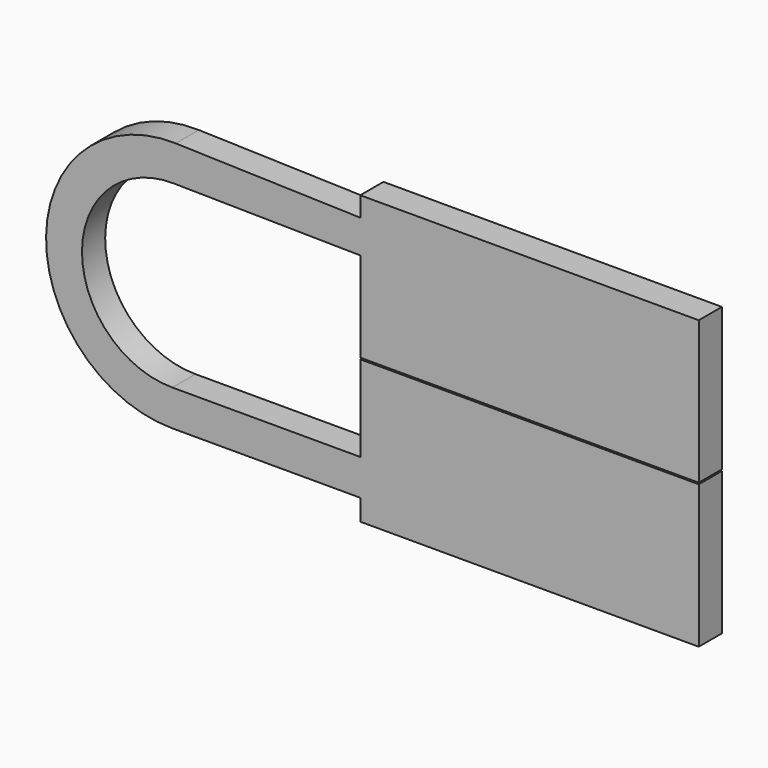
from build123d import *

# Parameters (mm, degrees)
F1_DEPTH = 2.54


with BuildPart() as f1:
    # F0 (on Front) → F1 (new body)
    with BuildSketch(Plane.XZ):
        Polygon((0.222055, 37.498046), (-29.462697, 37.498046), (-29.462697, 35.763686), (-29.462697, 32.851175), (-29.462697, 24.958797), (0.222055, 24.958797), align=None)
        Polygon((-29.462699, 17.290361), (-29.462699, 14.138268), (-29.462699, 12.290016), (0.222053, 12.290016), (0.222053, 24.829265), (-29.462699, 24.829265), align=None)
        with BuildLine():
            Line((-29.462697, 32.851175), (-29.462697, 35.763686))
            Line((-29.462697, 35.763686), (-45.645725, 36.237474))
            ThreePointArc((-45.645725, 36.237474), (-57.020053, 25.344449), (-45.954121, 14.138268))
            Line((-45.954121, 14.138268), (-29.462699, 14.138268))
            Line((-29.462699, 14.138268), (-29.462699, 17.290361))
            Line((-29.462699, 17.290361), (-45.946503, 17.290361))
            ThreePointArc((-45.946503, 17.290361), (-53.868923, 25.236285), (-45.854401, 33.089303))
            Line((-45.854401, 33.089303), (-29.462697, 32.851175))
        make_face()
    extrude(amount=F1_DEPTH)


solid = f1.part
